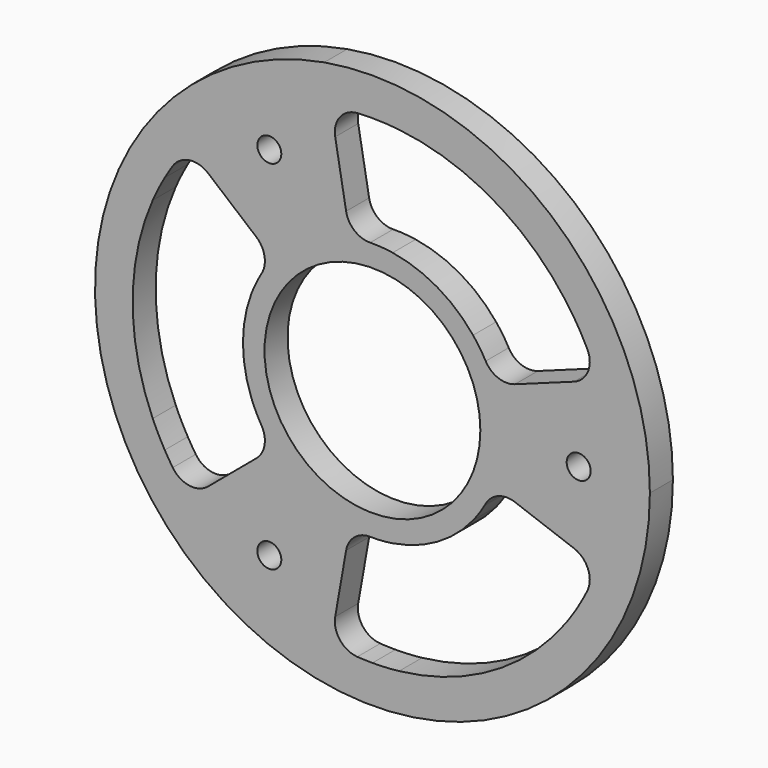
from build123d import *

# Parameters (mm, degrees)
F0_R     = 2.5
F0_R_2   = 22.5
F1_DEPTH = 6


with BuildPart() as f1:
    # F0 (on Front) → F1 (new body)
    with BuildSketch(Plane.XZ):
        with BuildLine():
            ThreePointArc((-10.045547, 56.971129), (-37.185263, -44.315671), (57.85, 0))
            ThreePointArc((57.85, 0), (37.185263, 44.315671), (-10.045547, 56.971129))
        make_face()
        with Locations((-21.5, -37.239092)):
            Circle(F0_R, mode=Mode.SUBTRACT)
        with BuildLine():
            ThreePointArc((-23.382686, 13.5), (-24.368717, 11.626075), (-25.204864, 9.680642))
            ThreePointArc((-25.204864, 9.680642), (-27, 0), (-25.204864, -9.680642))
            ThreePointArc((-25.204864, -9.680642), (-24.368717, -11.626075), (-23.382686, -13.5))
            ThreePointArc((-23.382686, -13.5), (-23.262708, -13.705708), (-23.14092, -13.91035))
            ThreePointArc((-23.14092, -13.91035), (-22.49477, -17.311118), (-24.212337, -20.316563))
            Line((-24.212337, -20.316563), (-34.258549, -28.746336))
            ThreePointArc((-34.258549, -28.746336), (-38.184741, -29.865123), (-41.636097, -27.684571))
            ThreePointArc((-41.636097, -27.684571), (-42.489891, -26.35544), (-43.30127, -25))
            ThreePointArc((-43.30127, -25), (-44.625232, -22.551911), (-45.810926, -20.033948))
            ThreePointArc((-45.810926, -20.033948), (-50, 0), (-45.810926, 20.033948))
            ThreePointArc((-45.810926, 20.033948), (-44.625232, 22.551911), (-43.30127, 25))
            ThreePointArc((-43.30127, 25), (-42.489891, 26.35544), (-41.636097, 27.684571))
            ThreePointArc((-41.636097, 27.684571), (-38.184741, 29.865123), (-34.258549, 28.746336))
            Line((-34.258549, 28.746336), (-24.212337, 20.316563))
            ThreePointArc((-24.212337, 20.316563), (-22.49477, 17.311118), (-23.14092, 13.91035))
            ThreePointArc((-23.14092, 13.91035), (-23.262708, 13.705708), (-23.382686, 13.5))
        make_face(mode=Mode.SUBTRACT)
        Circle(F0_R_2, mode=Mode.SUBTRACT)
        with BuildLine():
            ThreePointArc((4.21875, -26.668374), (13.5, -23.382686), (20.986114, -16.987731))
            ThreePointArc((20.986114, -16.987731), (22.252835, -15.29089), (23.382686, -13.5))
            ThreePointArc((23.382686, -13.5), (23.500845, -13.293242), (23.617176, -13.085449))
            ThreePointArc((23.617176, -13.085449), (26.239253, -10.825483), (29.700828, -10.810217))
            Line((29.700828, -10.810217), (42.024332, -15.295606))
            ThreePointArc((42.024332, -15.295606), (44.956326, -18.136394), (44.79359, -22.215632))
            ThreePointArc((44.79359, -22.215632), (44.069426, -23.619605), (43.30127, -25))
            ThreePointArc((43.30127, -25), (41.843144, -27.370629), (40.255371, -29.656452))
            ThreePointArc((40.255371, -29.656452), (25, -43.30127), (5.555556, -49.690399))
            ThreePointArc((5.555556, -49.690399), (2.782088, -49.92254), (0, -50))
            ThreePointArc((0, -50), (-1.579535, -49.975044), (-3.157493, -49.900203))
            ThreePointArc((-3.157493, -49.900203), (-6.771585, -48.001517), (-7.765783, -44.041942))
            Line((-7.765783, -44.041942), (-5.488491, -31.12678))
            ThreePointArc((-5.488491, -31.12678), (-3.744483, -28.136601), (-0.476257, -26.995799))
            ThreePointArc((-0.476257, -26.995799), (-0.238138, -26.99895), (0, -27))
            ThreePointArc((0, -27), (2.115882, -26.916966), (4.21875, -26.668374))
        make_face(mode=Mode.SUBTRACT)
        with BuildLine():
            ThreePointArc((40.5, 0), (43, 2.5), (45.5, 0))
            ThreePointArc((45.5, 0), (43, -2.5), (40.5, 0))
        make_face(mode=Mode.SUBTRACT)
        with Locations((-21.5, 37.239092)):
            Circle(F0_R, mode=Mode.SUBTRACT)
        with BuildLine():
            ThreePointArc((20.986114, 16.987731), (13.5, 23.382686), (4.21875, 26.668374))
            ThreePointArc((4.21875, 26.668374), (1.878394, 26.934581), (-0.476257, 26.995799))
            ThreePointArc((-0.476257, 26.995799), (-3.744483, 28.136601), (-5.488491, 31.12678))
            Line((-5.488491, 31.12678), (-7.765783, 44.041942))
            ThreePointArc((-7.765783, 44.041942), (-6.771585, 48.001517), (-3.157493, 49.900203))
            ThreePointArc((-3.157493, 49.900203), (1.203611, 49.985511), (5.555556, 49.690399))
            ThreePointArc((5.555556, 49.690399), (25, 43.30127), (40.255371, 29.656452))
            ThreePointArc((40.255371, 29.656452), (42.686917, 26.035114), (44.79359, 22.215632))
            ThreePointArc((44.79359, 22.215632), (44.956326, 18.136394), (42.024332, 15.295606))
            Line((42.024332, 15.295606), (29.700828, 10.810217))
            ThreePointArc((29.700828, 10.810217), (26.239253, 10.825483), (23.617176, 13.085449))
            ThreePointArc((23.617176, 13.085449), (22.386834, 15.094028), (20.986114, 16.987731))
        make_face(mode=Mode.SUBTRACT)
    extrude(amount=F1_DEPTH)


solid = f1.part
